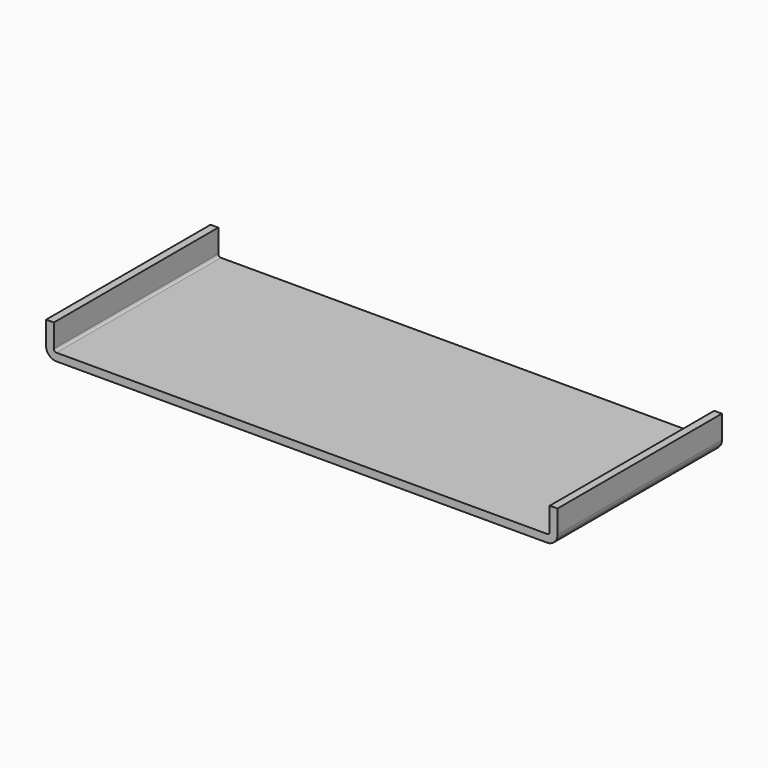
from build123d import *

# Parameters (mm, degrees)
F1_DEPTH = 40
F2_R     = 1
F3_R     = 4


with BuildPart() as f1:
    # F0 (on Front) → F1 (new body, symmetric)
    with BuildSketch(Plane.XZ):
        Polygon((-99.5, 0), (-99.5, -13), (99.5, -13), (99.5, 0), (96.5, 0), (96.5, -10), (-96.5, -10), (-96.5, 0), align=None)
    extrude(amount=F1_DEPTH, both=True)

    # F2
    f2_edges = [f1.edges().sort_by_distance(p)[0] for p in [
        (-96.5, 0, -10),
        (96.5, 0, -10),
    ]]
    fillet(f2_edges, radius=F2_R)

    # F3
    f3_edges = [f1.edges().sort_by_distance(p)[0] for p in [
        (-99.5, 0, -13),
        (99.5, 0, -13),
    ]]
    fillet(f3_edges, radius=F3_R)


solid = f1.part
